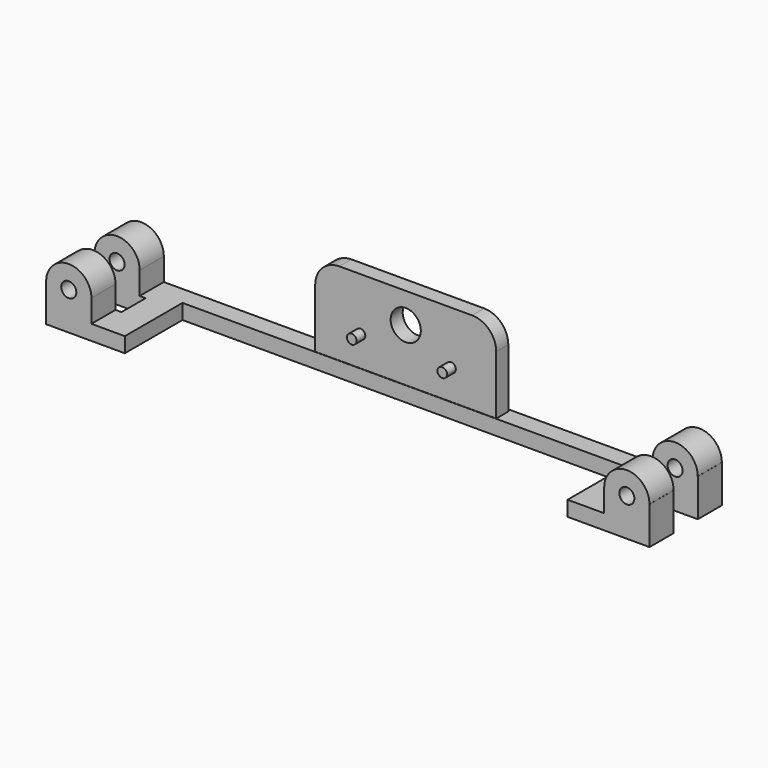
from build123d import *

# Parameters (mm, degrees)
F2_R      = 1.5875
F4_DEPTH  = 9.525
F3_W      = 11.9612812996
F3_H      = 17.3548664898
F5_DEPTH  = 3.175
F6_W      = 38.1
F6_H      = 19.05
F7_DEPTH  = 3.175
F8_R      = 1.016
F9_DEPTH  = 5.471363198
F10_R     = 5.08
F11_W     = 93.1863598526
F11_H     = 18.8650693744
F12_DEPTH = 3.175
F13_R     = 3.175
F14_DEPTH = 9.5102116466


with BuildPart() as f4:
    # F2 (on Front) → F4 (new body, symmetric)
    with BuildSketch(Plane.XZ):
        with BuildLine():
            ThreePointArc((63.4873, 6.3627), (58.7248, 11.1252), (53.9623, 6.3627))
            ThreePointArc((53.9623, 6.3627), (58.7248, 1.6002), (63.4873, 6.3627))
        make_face()
        with Locations((58.7248, 6.3627)):
            Circle(F2_R, mode=Mode.SUBTRACT)
        with BuildLine():
            Line((53.9623, 1.5875), (63.5, 1.5875))
            Line((63.5, 1.5875), (63.5, 6.3627))
            Line((63.5, 6.3627), (63.4873, 6.3627))
            ThreePointArc((63.4873, 6.3627), (58.7248, 1.6002), (53.9623, 6.3627))
            Line((53.9623, 6.3627), (53.9623, 1.5875))
        make_face()
        Polygon((-63.5, 1.5875), (-63.5, -1.5875), (63.5, -1.5875), (63.5, 1.5875), (53.9623, 1.5875), (-53.9623, 1.5875), align=None)
        with BuildLine():
            ThreePointArc((-63.4873, 6.3627), (-58.7248, 1.6002), (-53.9623, 6.3627))
            ThreePointArc((-53.9623, 6.3627), (-58.7248, 11.1252), (-63.4873, 6.3627))
        make_face()
        with Locations((-58.7248, 6.3627)):
            Circle(F2_R, mode=Mode.SUBTRACT)
        with BuildLine():
            Line((-63.5, 6.3627), (-63.5, 1.5875))
            Line((-63.5, 1.5875), (-53.9623, 1.5875))
            Line((-53.9623, 1.5875), (-53.9623, 6.3627))
            ThreePointArc((-53.9623, 6.3627), (-58.7248, 1.6002), (-63.4873, 6.3627))
            Line((-63.4873, 6.3627), (-63.5, 6.3627))
        make_face()
    extrude(amount=F4_DEPTH, both=True)

    # F3 (on Front) → F5 (cut, symmetric)
    with BuildSketch(Plane.XZ):
        with Locations((-58.6804002523, 4.3448181823)):
            Rectangle(F3_W, F3_H)
        with Locations((58.6804002523, 4.3448181823)):
            Rectangle(F3_W, F3_H)
    extrude(amount=F5_DEPTH, both=True, mode=Mode.SUBTRACT)

    # F6 (on offset) → F7 (join)
    with BuildSketch(Plane.XZ.offset(-8.89)):
        with Locations((0, 9.525)):
            Rectangle(F6_W, F6_H)
    extrude(amount=F7_DEPTH)

    # F8 (on offset) → F9 (join)
    with BuildSketch(Plane.XZ.offset(-8.89)):
        with Locations((-9.525, 7.9375)):
            Circle(F8_R)
        with Locations((9.525, 7.9375)):
            Circle(F8_R)
    extrude(amount=F9_DEPTH)

    # F10
    f10_edges = [f4.edges().sort_by_distance(p)[0] for p in [
        (19.05, 7.3025, 19.05),
        (-19.05, 7.3025, 19.05),
    ]]
    fillet(f10_edges, radius=F10_R)

    # F11 (on Top) → F12 (cut, symmetric)
    with BuildSketch(Plane.XY):
        with Locations((-0.332666561, -3.7929313257)):
            Rectangle(F11_W, F11_H)
    extrude(amount=F12_DEPTH, both=True, mode=Mode.SUBTRACT)

    # F13 (on offset) → F14 (cut)
    with BuildSketch(Plane.XZ.offset(-8.89)):
        with Locations((0, 12.7)):
            Circle(F13_R)
    extrude(amount=F14_DEPTH, mode=Mode.SUBTRACT)


solid = f4.part
